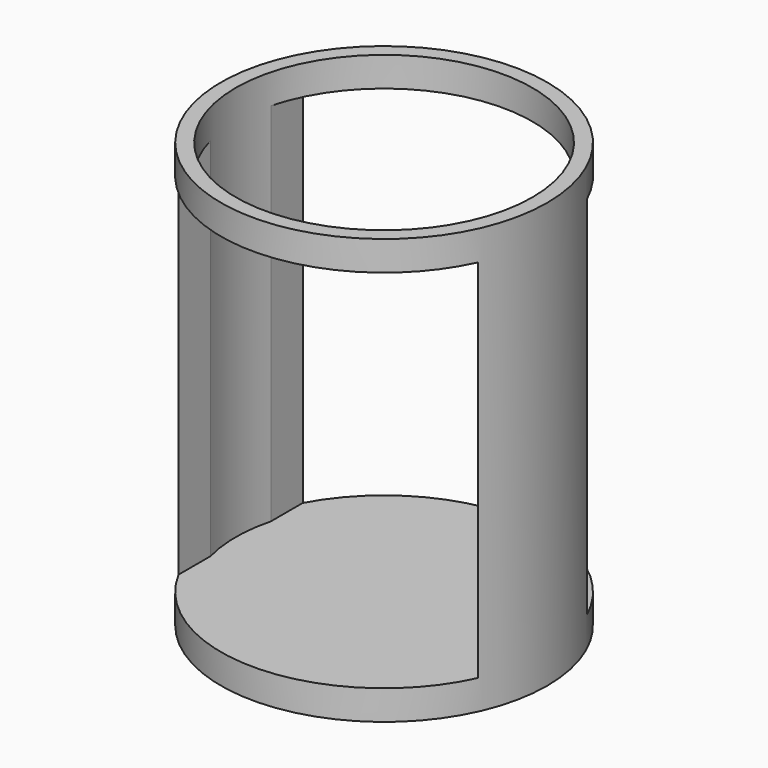
from build123d import *

# Parameters (mm, degrees)
F0_R     = 16.5
F1_DEPTH = 43
F2_R     = 15
F3_DEPTH = 40
F5_W     = 29.508476
F5_H     = 37
F6_DEPTH = 66.501


with BuildPart() as f1:
    # F0 (on Top) → F1 (new body)
    with BuildSketch(Plane.XY):
        Circle(F0_R)
    extrude(amount=F1_DEPTH)

    # F2 (on face) → F3 (cut)
    with BuildSketch(Plane.XY.offset(43)):
        Circle(F2_R)
    extrude(amount=-F3_DEPTH, mode=Mode.SUBTRACT)

    # F5 (on offset) → F6 (cut, through all)
    with BuildSketch(Plane.XZ.offset(50)):
        with Locations((0.245762, 21.5)):
            Rectangle(F5_W, F5_H)
    extrude(amount=-F6_DEPTH, mode=Mode.SUBTRACT)


solid = f1.part
